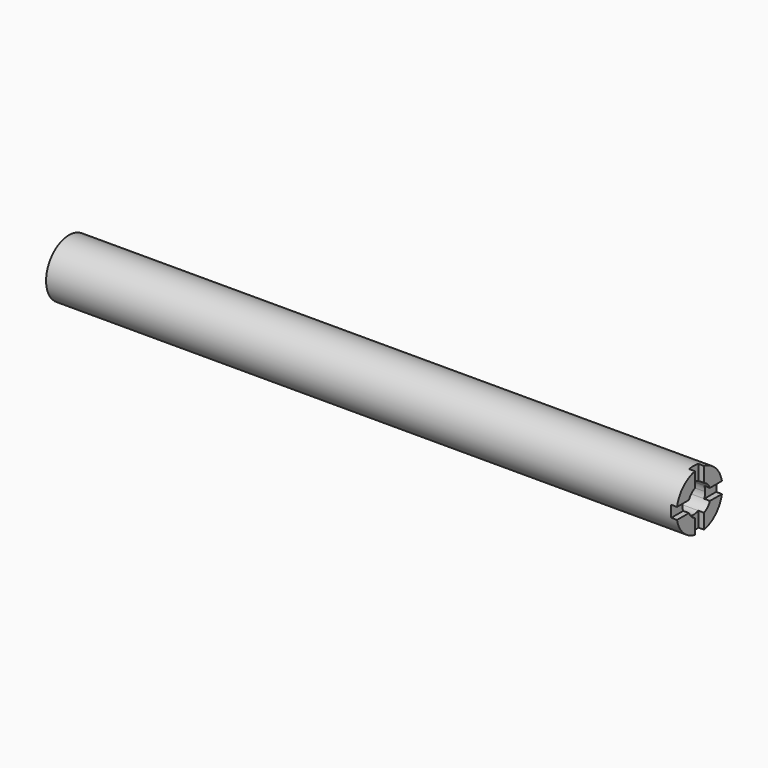
from build123d import *

# Parameters (mm, degrees)
F0_W     = 66.167
F0_H     = 12.7
F0_W_2   = 194.183
F0_W_3   = 19.05
F3_DEPTH = 2.54
F4_DEPTH = 25.4


with BuildPart() as f1:
    # F0 (on Front) → F1 (revolve)
    with BuildSketch(Plane.XZ):
        with Locations((33.0835, 6.35)):
            Rectangle(F0_W, F0_H)
        with Locations((163.2585, 6.35)):
            Rectangle(F0_W_2, F0_H)
        with Locations((269.875, 6.35)):
            Rectangle(F0_W_3, F0_H)
    revolve(axis=Axis((155.896521, 0, 0), (1, 0, 0)))

    # F2 (on face) → F3 (cut)
    with BuildSketch(Plane.YZ.offset(279.4)):
        with BuildLine():
            ThreePointArc((-2.54, 5.819871), (0, 6.35), (2.54, 5.819871))
            Line((2.54, 5.819871), (2.54, 12.443408))
            ThreePointArc((2.54, 12.443408), (0, 12.7), (-2.54, 12.443408))
            Line((-2.54, 12.443408), (-2.54, 5.819871))
        make_face()
        with BuildLine():
            ThreePointArc((-5.819871, -2.54), (-6.35, 0), (-5.819871, 2.54))
            Line((-5.819871, 2.54), (-12.443408, 2.54))
            ThreePointArc((-12.443408, 2.54), (-12.7, 0), (-12.443408, -2.54))
            Line((-12.443408, -2.54), (-5.819871, -2.54))
        make_face()
        with BuildLine():
            Line((2.54, -12.443408), (2.54, -5.819871))
            ThreePointArc((2.54, -5.819871), (0, -6.35), (-2.54, -5.819871))
            Line((-2.54, -5.819871), (-2.54, -12.443408))
            ThreePointArc((-2.54, -12.443408), (0, -12.7), (2.54, -12.443408))
        make_face()
        with BuildLine():
            ThreePointArc((5.819871, 2.54), (6.216055, 1.297366), (6.35, 0))
            ThreePointArc((6.35, 0), (6.216055, -1.297366), (5.819871, -2.54))
            Line((5.819871, -2.54), (12.443408, -2.54))
            ThreePointArc((12.443408, -2.54), (12.635689, -1.276464), (12.7, 0))
            ThreePointArc((12.7, 0), (12.635689, 1.276464), (12.443408, 2.54))
            Line((12.443408, 2.54), (5.819871, 2.54))
        make_face()
    extrude(amount=-F3_DEPTH, mode=Mode.SUBTRACT)

    # F2 (on face) → F4 (cut)
    with BuildSketch(Plane.YZ.offset(279.4)):
        with BuildLine():
            ThreePointArc((5.819871, -2.54), (6.216055, -1.297366), (6.35, 0))
            ThreePointArc((6.35, 0), (6.216055, 1.297366), (5.819871, 2.54))
            ThreePointArc((5.819871, 2.54), (4.490128, 4.490128), (2.54, 5.819871))
            ThreePointArc((2.54, 5.819871), (0, 6.35), (-2.54, 5.819871))
            ThreePointArc((-2.54, 5.819871), (-4.490128, 4.490128), (-5.819871, 2.54))
            ThreePointArc((-5.819871, 2.54), (-6.35, 0), (-5.819871, -2.54))
            ThreePointArc((-5.819871, -2.54), (-4.490128, -4.490128), (-2.54, -5.819871))
            ThreePointArc((-2.54, -5.819871), (0, -6.35), (2.54, -5.819871))
            ThreePointArc((2.54, -5.819871), (4.490128, -4.490128), (5.819871, -2.54))
        make_face()
    extrude(amount=-F4_DEPTH, mode=Mode.SUBTRACT)


solid = f1.part
